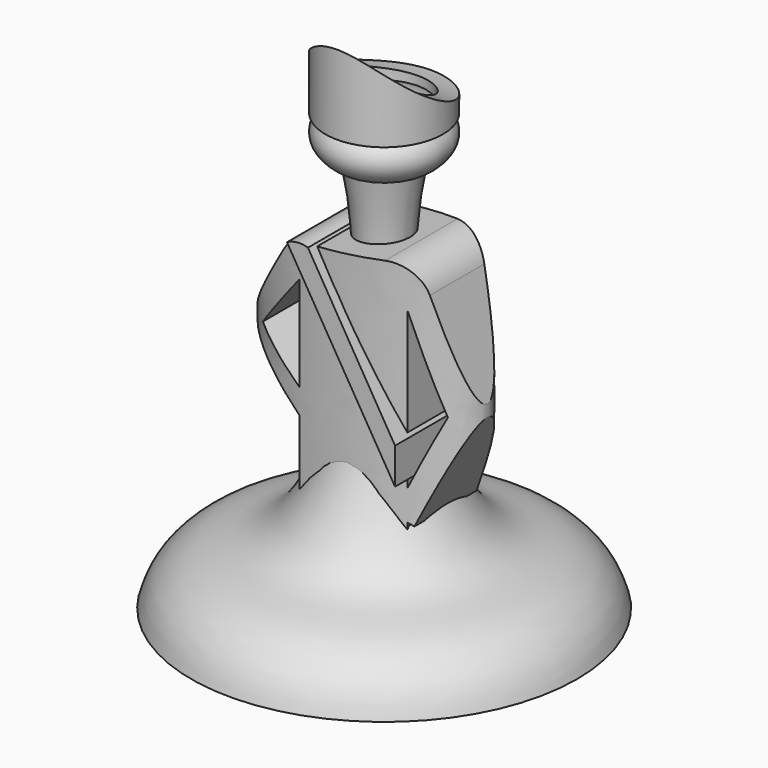
from build123d import *

# Parameters (mm, degrees)
F2_R      = 3.5
F2_R_2    = 2.5
F3_DEPTH  = 5
F4_R      = 9.2846525372
F5_DEPTH  = 12.5
F9_DEPTH  = 3
F11_DEPTH = 25
F14_DEPTH = 3.5


with BuildPart() as f1:
    # F0 (on Front) → F1 (revolve)
    with BuildSketch(Plane.XZ):
        with BuildLine():
            Line((0, 27), (0, 0))
            Line((0, 0), (11.5, 0))
            add(Edge.make_bspline(
                [(2, 23.3586963867), (0.530508114, 16.1311160773), (3.449753634, 3.5148226465), (8.6579844425, 3.4911820103), (10.8587258786, 1.7471955321), (11.305801755, 0.645047856), (11.5, 0)],
                knots=[0, 0, 0, 0, 0.4695144677, 0.6834743861, 0.8538089609, 1, 1, 1, 1], degree=3))
            add(Edge.make_bspline(
                [(2, 23.3586963867), (11.1514923157, 27), (0, 27)],
                knots=[5.3206345593, 5.3206345593, 5.3206345593, 7.853981634, 7.853981634, 7.853981634], degree=2, weights=[1, 0.2994563352, 1]))
        make_face()
    revolve(axis=Axis((0, 0, 13.5), (0, 0, 1)))


with BuildPart() as f3:
    # F2 (on Top) → F3 (new body)
    with BuildSketch(Plane.XY):
        Circle(F2_R)
        Circle(F2_R_2, mode=Mode.SUBTRACT)
    extrude(amount=F3_DEPTH)


with BuildPart() as f5:
    # F4 (on Right) → F5 (new body, symmetric)
    with BuildSketch(Plane.YZ):
        with Locations((4.0925596841, 10.0750122219)):
            Circle(F4_R)
    extrude(amount=F5_DEPTH, both=True)


with BuildPart() as f3_1:
    add(f3.part)

    # F6: cut F5
    add(f5.part, mode=Mode.SUBTRACT)


with BuildPart() as f3_2:
    # F7: moved
    add(f3_1.part.moved(Location((0, 0, 26))))


with BuildPart() as f9:
    # F8 (on Front) → F9 (new body, symmetric)
    with BuildSketch(Plane.XZ):
        with BuildLine():
            Line((2.2194249977, 20.0527044279), (-2.4651993588, 19.5370022847))
            ThreePointArc((-2.4651993588, 19.5370022847), (-3.2956392385, 19.2516565173), (-3.9238154793, 18.6381035765))
            Line((-3.9238154793, 18.6381035765), (-7.1794753894, 13.6236082762))
            Line((-7.1794753894, 13.6236082762), (-2.8209472075, 10.3028248996))
            Line((-2.8209472075, 10.3028248996), (-2.8209472075, 6.0925465077))
            Line((-2.8209472075, 6.0925465077), (3.3256692557, 6.0925465077))
            Line((3.3256692557, 6.0925465077), (3.3256692557, 6.5530717195))
            Line((3.3256692557, 6.5530717195), (3.6569941857, 6.405074359))
            Line((3.6569941857, 6.405074359), (6.2906541141, 12.3011064797))
            Line((6.2906541141, 12.3011064797), (4.3509740913, 18.6491508831))
            ThreePointArc((4.3509740913, 18.6491508831), (3.5381703423, 19.735109418), (2.2194249977, 20.0527044279))
        make_face()
        Polygon((3.3256692557, 8.3507318052), (3.3256692557, 6.5530717195), (2.6562507264, 6.8520898931), align=None, mode=Mode.SUBTRACT)
        Polygon((5.090236217, 12.3011064797), (3.3256692557, 8.3507318052), (3.3256692557, 17.6973794669), align=None, mode=Mode.SUBTRACT)
        Polygon((-5.8155823499, 13.8608077541), (-2.8209472075, 17.4780897796), (-2.8209472075, 11.7853181437), align=None, mode=Mode.SUBTRACT)
        Polygon((2.6562507264, 6.8520898931), (3.3256692557, 6.5530717195), (3.3256692557, 8.3507318052), align=None)
    extrude(amount=F9_DEPTH, both=True)


with BuildPart() as f11:
    # F10 (on Top) → F11 (new body)
    with BuildSketch(Plane.XY):
        with BuildLine():
            add(Edge.make_bspline(
                [(-7.1313707158, 0), (-7.1313707158, -5.128804412), (2.8377770504, -2.564402206), (12.8069248167, 0), (2.8377770504, 2.564402206), (-7.1313707158, 5.128804412), (-7.1313707158, 0)],
                knots=[0, 0, 0, 2.0943951024, 2.0943951024, 4.1887902048, 4.1887902048, 6.2831853072, 6.2831853072, 6.2831853072], degree=2, weights=[1, 0.5, 1, 0.5, 1, 0.5, 1]))
        make_face()
    extrude(amount=F11_DEPTH)

    # F12: intersect F9
    add(f9.part, mode=Mode.INTERSECT)


with BuildPart() as f14:
    # F13 (on Front) → F14 (new body, symmetric)
    with BuildSketch(Plane.XZ):
        with BuildLine():
            Line((3.4507710952, 11.0627187071), (-1.7417417839, 19.7692289948))
            ThreePointArc((-1.7417417839, 19.7692289948), (-2.3791195831, 19.8405053844), (-2.9909904115, 19.6482948959))
            Line((-2.9909904115, 19.6482948959), (3.4507710952, 8.907889016))
            Line((3.4507710952, 8.907889016), (3.4507710952, 11.0627187071))
        make_face()
    extrude(amount=F14_DEPTH, both=True)


solid = Compound([f1.part, f3_2.part, f11.part, f14.part])
